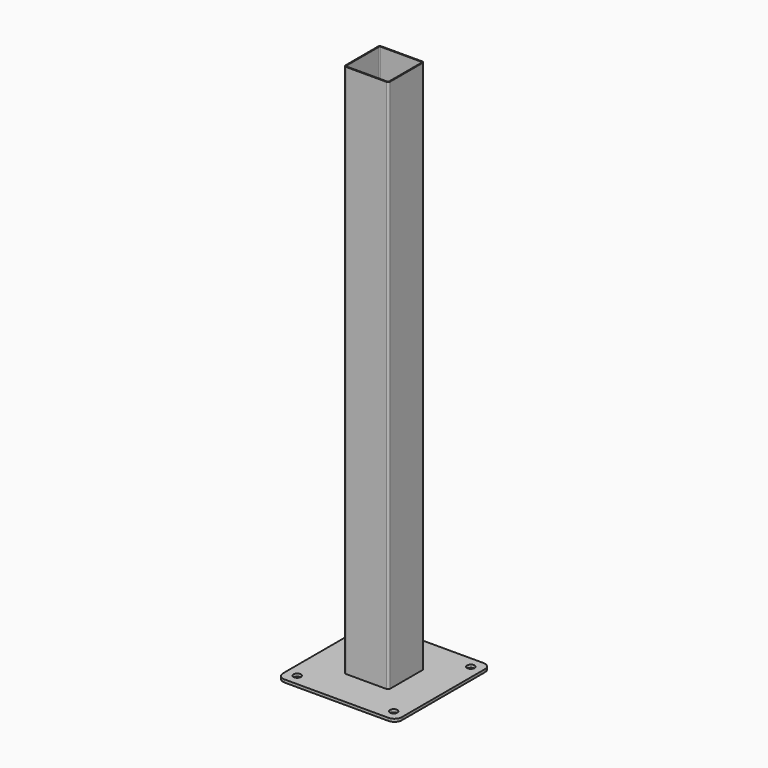
from build123d import *

# Parameters (mm, degrees)
F0_W     = 203.2
F0_H     = 203.2
F0_R     = 6.35
F1_DEPTH = 4.7625
F2_R     = 12.7
F4_DEPTH = 914.4


with BuildPart() as f1:
    # F0 (on Top) → F1 (new body)
    with BuildSketch(Plane.XY):
        Rectangle(F0_W, F0_H)
        with Locations((-82.55, -82.55)):
            Circle(F0_R, mode=Mode.SUBTRACT)
        with Locations((82.55, -82.55)):
            Circle(F0_R, mode=Mode.SUBTRACT)
        with Locations((-82.55, 82.55)):
            Circle(F0_R, mode=Mode.SUBTRACT)
        with Locations((82.55, 82.55)):
            Circle(F0_R, mode=Mode.SUBTRACT)
    extrude(amount=F1_DEPTH)

    # F2
    f2_edges = [f1.edges().sort_by_distance(p)[0] for p in [
        (-101.6, -101.6, 2.38125),
        (101.6, -101.6, 2.38125),
        (101.6, 101.6, 2.38125),
        (-101.6, 101.6, 2.38125),
    ]]
    fillet(f2_edges, radius=F2_R)

    # F3 (on face) → F4 (join)
    with BuildSketch(Plane.XY.offset(4.7625)):
        with BuildLine():
            Line((34.925, 38.1), (-34.925, 38.1))
            ThreePointArc((-34.925, 38.1), (-37.170064, 37.170064), (-38.1, 34.925))
            Line((-38.1, 34.925), (-38.1, -34.925))
            ThreePointArc((-38.1, -34.925), (-37.170064, -37.170064), (-34.925, -38.1))
            Line((-34.925, -38.1), (34.925, -38.1))
            ThreePointArc((34.925, -38.1), (37.170064, -37.170064), (38.1, -34.925))
            Line((38.1, -34.925), (38.1, 34.925))
            ThreePointArc((38.1, 34.925), (37.170064, 37.170064), (34.925, 38.1))
        make_face()
        with BuildLine():
            Line((-36.5125, -34.925), (-36.5125, 34.925))
            ThreePointArc((-36.5125, 34.925), (-36.047532, 36.047532), (-34.925, 36.5125))
            Line((-34.925, 36.5125), (34.925, 36.5125))
            ThreePointArc((34.925, 36.5125), (36.047532, 36.047532), (36.5125, 34.925))
            Line((36.5125, 34.925), (36.5125, -34.925))
            ThreePointArc((36.5125, -34.925), (36.047532, -36.047532), (34.925, -36.5125))
            Line((34.925, -36.5125), (-34.925, -36.5125))
            ThreePointArc((-34.925, -36.5125), (-36.047532, -36.047532), (-36.5125, -34.925))
        make_face(mode=Mode.SUBTRACT)
    extrude(amount=F4_DEPTH)


solid = f1.part
